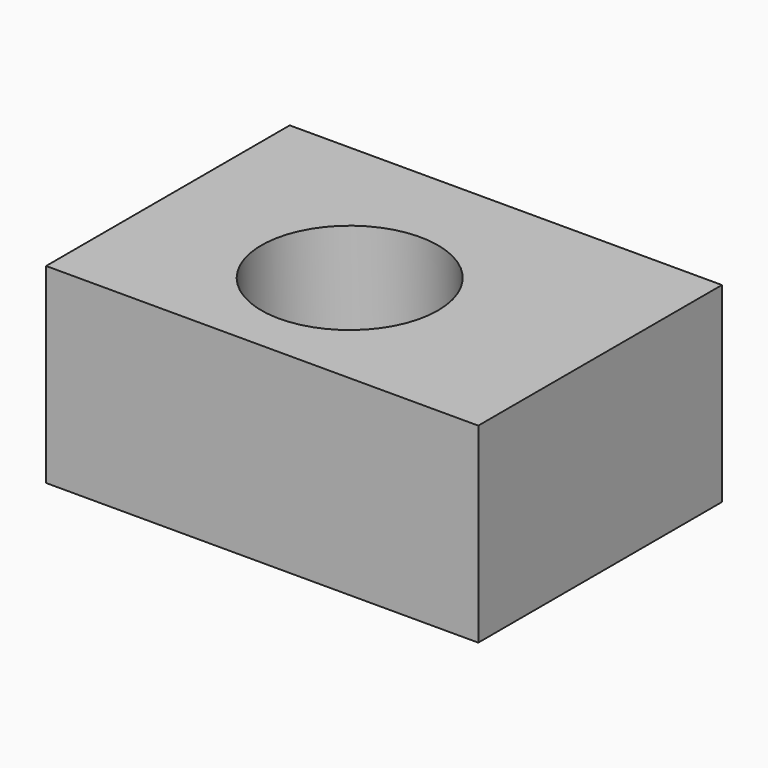
from build123d import *

# Parameters (mm, degrees)
F0_W      = 66.6496
F0_H      = 46.9646
F2_DEPTH  = 29.464
F1_R      = 13.6144
F3_DEPTH  = 48.514
F3_FACE_R = 13.6144
F4_DEPTH  = 84.836


with BuildPart() as f2:
    # F0 (on Top) → F2 (new body)
    with BuildSketch(Plane.XY):
        with Locations((2.836652, 3.065012)):
            Rectangle(F0_W, F0_H)
    extrude(amount=-F2_DEPTH)

    # F1 (on Top) → F3 (join)
    with BuildSketch(Plane.XY):
        Circle(F1_R)
    extrude(amount=-F3_DEPTH)

    # F3_face (on face) → F4 (cut)
    with BuildSketch(Plane(origin=(0, 0, -48.514), x_dir=(1, 0, 0), z_dir=(0, 0, -1))):
        Circle(F3_FACE_R)
    extrude(amount=-F4_DEPTH, mode=Mode.SUBTRACT)


solid = f2.part
